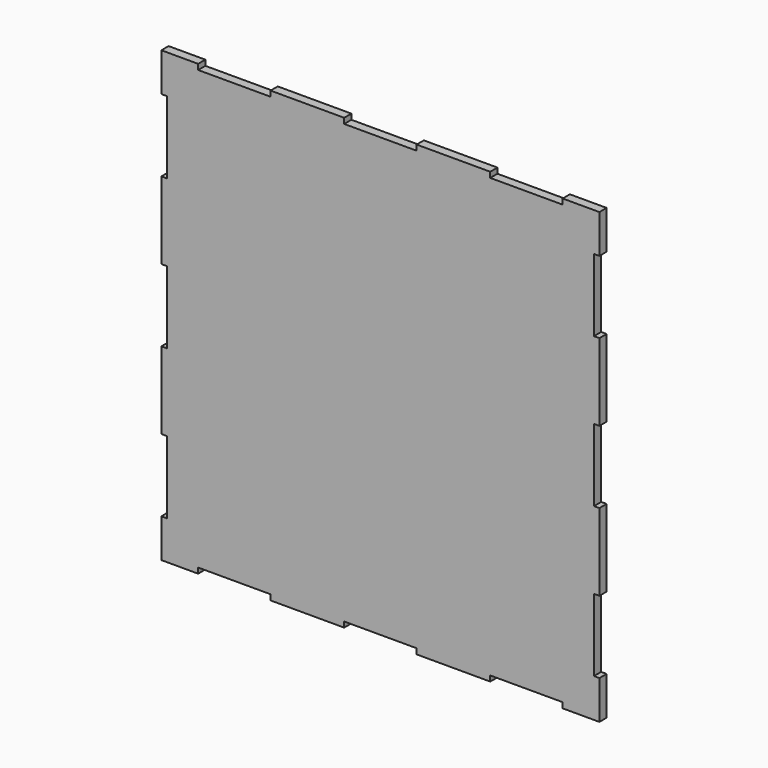
from build123d import *

# Parameters (mm, degrees)
F1_DEPTH = 5


with BuildPart() as f1:
    # F0 (on Front) → F1 (new body)
    with BuildSketch(Plane.XZ):
        Polygon((100.7, -124), (121, -124), (121, -102.67), (118, -102.67), (118, -62.67), (121, -62.67), (121, -20), (118, -20), (118, 20), (121, 20), (121, 62.67), (118, 62.67), (118, 102.67), (121, 102.67), (121, 124), (100.7, 124), (100.7, 121), (60.7, 121), (60.7, 124), (20, 124), (20, 121), (-20, 121), (-20, 124), (-60.7, 124), (-60.7, 121), (-100.7, 121), (-100.7, 124), (-121, 124), (-121, 102.67), (-118, 102.67), (-118, 62.67), (-121, 62.67), (-121, 20), (-118, 20), (-118, -20), (-121, -20), (-121, -62.67), (-118, -62.67), (-118, -102.67), (-121, -102.67), (-121, -124), (-100.7, -124), (-100.7, -121), (-60.7, -121), (-60.7, -124), (-20, -124), (-20, -121), (20, -121), (20, -124), (60.7, -124), (60.7, -121), (100.7, -121), align=None)
        Polygon((100.7, -124), (121, -124), (121, -102.67), (118, -102.67), (118, -62.67), (121, -62.67), (121, -20), (118, -20), (118, 20), (121, 20), (121, 62.67), (118, 62.67), (118, 102.67), (121, 102.67), (121, 124), (100.7, 124), (100.7, 121), (60.7, 121), (60.7, 124), (20, 124), (20, 121), (-20, 121), (-20, 124), (-60.7, 124), (-60.7, 121), (-100.7, 121), (-100.7, 124), (-121, 124), (-121, 102.67), (-118, 102.67), (-118, 62.67), (-121, 62.67), (-121, 20), (-118, 20), (-118, -20), (-121, -20), (-121, -62.67), (-118, -62.67), (-118, -102.67), (-121, -102.67), (-121, -124), (-100.7, -124), (-100.7, -121), (-60.7, -121), (-60.7, -124), (-20, -124), (-20, -121), (20, -121), (20, -124), (60.7, -124), (60.7, -121), (100.7, -121), align=None)
    extrude(amount=F1_DEPTH)


solid = f1.part
